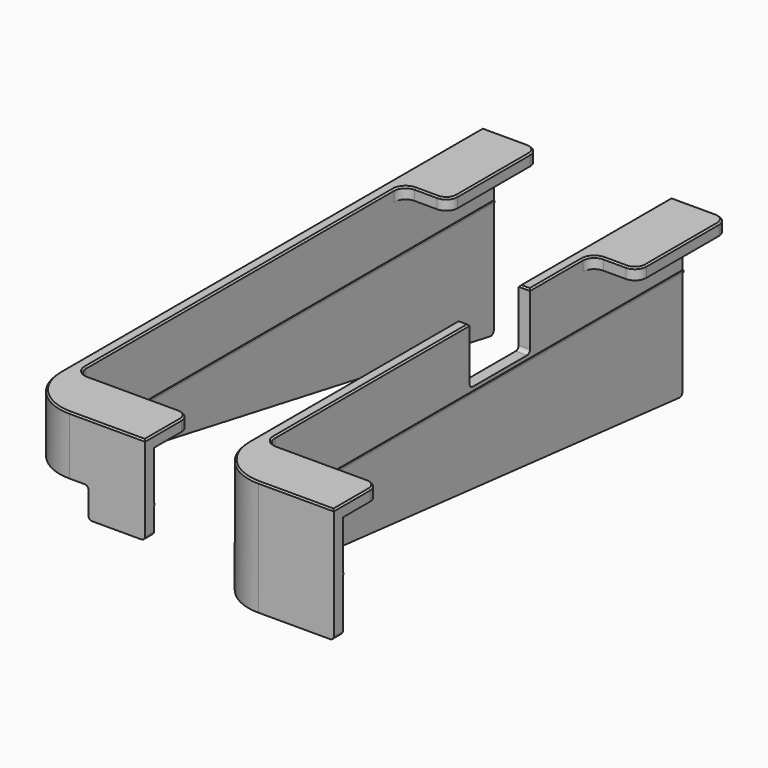
from build123d import *

# Parameters (mm, degrees)
SKETCH_W           = 33
SKETCH_H           = 153
PAD_DEPTH          = 75
SKETCH001_W        = 30
SKETCH001_H        = 150
POCKET_DEPTH       = 72
POCKET001_DEPTH    = 3
FILLET_R           = 10
FILLET001_R        = 13
FILLET002_R        = 3
POCKET002_DEPTH    = 33.001
SKETCH009_W        = 18
SKETCH009_H        = 25
POCKET007_DEPTH    = 5
POCKET008_DEPTH    = 27.001
POCKET008_FACE25_W = 3
POCKET008_FACE25_H = 15
PAD003_DEPTH       = 3
FILLET007_R        = 1
CHAMFER_SIZE       = 0.4
SKETCH010_W        = 128
SKETCH010_H        = 0.5
PAD004_DEPTH       = 0.2
SKETCH011_W        = 15
SKETCH011_H        = 0.5
PAD005_DEPTH       = 0.2
POCKET003_DEPTH    = 33.001
SKETCH005_W        = 13
SKETCH005_H        = 5
POCKET004_DEPTH    = 20
FILLET004_R        = 1
POCKET005_DEPTH    = 0.5
FILLET005_R        = 1
SKETCH006_W        = 140
SKETCH006_H        = 0.5
PAD001_DEPTH       = 0.2
SKETCH007_W        = 20
SKETCH007_H        = 0.5
PAD002_DEPTH       = 0.2
SKETCH008_W        = 20
SKETCH008_H        = 15
POCKET006_DEPTH    = 33.001
FILLET006_R        = 1
CHAMFER001_SIZE    = 0.4


with BuildPart() as base:
    # Sketch → Pad (new body)
    with BuildSketch(Plane.XY):
        with Locations((13.5, 73.5)):
            Rectangle(SKETCH_W, SKETCH_H)
    extrude(amount=PAD_DEPTH)

    # Sketch001 (on Face5 of Pad) → Pocket (cut)
    with BuildSketch(Plane(origin=(0, 0, 0), x_dir=(1, 0, 0), z_dir=(0, 0, -1))):
        with Locations((15, -75)):
            Rectangle(SKETCH001_W, SKETCH001_H)
    extrude(amount=-POCKET_DEPTH, mode=Mode.SUBTRACT)

    # Sketch002 (on Face5 of Pocket) → Pocket001 (cut)
    with BuildSketch(Plane.XY.offset(75)):
        Polygon((12, 150), (12, 120), (0, 120), (0, 12), (30, 12), (30, 150), align=None)
    extrude(amount=-POCKET001_DEPTH, mode=Mode.SUBTRACT)

    # Fillet
    fillet_edges = [base.edges().sort_by_distance(p)[0] for p in [
        (0, 0, 36),
    ]]
    fillet(fillet_edges, radius=FILLET_R)

    # Fillet001
    fillet001_edges = [base.edges().sort_by_distance(p)[0] for p in [
        (-3, -3, 37.5),
    ]]
    fillet(fillet001_edges, radius=FILLET001_R)

    # Fillet002
    fillet002_edges = [base.edges().sort_by_distance(p)[0] for p in [
        (0, 12, 73.5),
        (0, 120, 73.5),
        (30, 12, 73.5),
        (12, 120, 73.5),
        (12, 150, 73.5),
    ]]
    fillet(fillet002_edges, radius=FILLET002_R)


with BuildPart() as left:
    # Body001 base: copy of base
    add(base.part)

    # Sketch003 (on Face7 of Clone) → Pocket002 (cut, through all)
    with BuildSketch(Plane(origin=(-3, 0, 0), x_dir=(0, -1, 0), z_dir=(-1, 0, 0))):
        Polygon((-150, 27.5), (0, 54.5), (3, 54.5), (3, 0), (-150, 0), align=None)
    extrude(amount=-POCKET002_DEPTH, mode=Mode.SUBTRACT)

    # Sketch009 (on Face16 of Pocket002) → Pocket007 (cut)
    with BuildSketch(Plane(origin=(0, 0, 54.5), x_dir=(1, 0, 0), z_dir=(0, 0, -1))):
        with Locations((6, -9.5)):
            Rectangle(SKETCH009_W, SKETCH009_H)
    extrude(amount=-POCKET007_DEPTH, mode=Mode.SUBTRACT)

    # Pocket007 Face13 → Pocket008 (cut, through all)
    with BuildSketch(Plane(origin=(-0.375432, 10.110075, 54.5), x_dir=(0, 1, 0), z_dir=(0, 0, 1))):
        with BuildLine():
            Line((11.889925, 2.624568), (-0.110075, 2.624568))
            ThreePointArc((-0.110075, 2.624568), (-5.633384, 1.392875), (-10.110075, -2.068808))
            Line((-10.110075, -2.068808), (-10.110075, -10.375432))
            ThreePointArc((-10.110075, -10.375432), (-7.181142, -3.304364), (-0.110075, -0.375432))
            Line((-0.110075, -0.375432), (11.889925, -0.375432))
            Line((11.889925, -0.375432), (11.889925, 2.624568))
        make_face()
    extrude(amount=-POCKET008_DEPTH, mode=Mode.SUBTRACT)

    # Pocket008 Face25 → Pad003 (add)
    with BuildSketch(Plane(origin=(22.5, -1.5, 54.5), x_dir=(0, -1, 0), z_dir=(0, 0, -1))):
        Rectangle(POCKET008_FACE25_W, POCKET008_FACE25_H)
    extrude(amount=PAD003_DEPTH)

    # Fillet007
    fillet007_edges = [left.edges().sort_by_distance(p)[0] for p in [
        (30, -1.5, 51.5),
        (15, -1.5, 51.5),
        (-1.5, 22, 50.54),
        (15, -1.5, 59.5),
        (-1.5, 22, 59.5),
        (-1.5, 150, 27.5),
    ]]
    fillet(fillet007_edges, radius=FILLET007_R)

    # Chamfer
    chamfer_edges = [left.edges().sort_by_distance(p)[0] for p in [
        (3, 150, 75),
        (11.12132, 149.12132, 75),
        (-3, 80, 75),
        (12, 135, 75),
        (0.807612, 0.807612, 75),
        (11.12132, 120.87868, 75),
        (20, -3, 75),
        (6, 120, 75),
        (30, 3, 75),
        (0.87868, 119.12132, 75),
        (29.12132, 11.12132, 75),
        (0, 66, 75),
        (15, 12, 75),
        (0.87868, 12.87868, 75),
    ]]
    chamfer(chamfer_edges, length=CHAMFER_SIZE)

    # Sketch010 (on Face6 of Chamfer) → Pad004 (join)
    with BuildSketch(Plane.YZ):
        with Locations((86, 58.75)):
            Rectangle(SKETCH010_W, SKETCH010_H)
    extrude(amount=PAD004_DEPTH)

    # Sketch011 (on Face34 of Pad004) → Pad005 (join)
    with BuildSketch(Plane(origin=(0, 0, 0), x_dir=(-1, 0, 0), z_dir=(0, 1, 0))):
        with Locations((-22.5, 58.75)):
            Rectangle(SKETCH011_W, SKETCH011_H)
    extrude(amount=PAD005_DEPTH)


with BuildPart() as left_1:
    # Body001 placement: moved
    add(left.part.moved(Location((-50, 0, 0))))


with BuildPart() as right:
    # Body002 base: copy of base
    add(base.part)

    # Sketch004 (on Face7 of Clone001) → Pocket003 (cut, through all)
    with BuildSketch(Plane(origin=(-3, 0, 0), x_dir=(0, -1, 0), z_dir=(-1, 0, 0))):
        Polygon((-150, 29.5), (0, 44), (3, 44), (3, 0), (-150, 0), align=None)
    extrude(amount=-POCKET003_DEPTH, mode=Mode.SUBTRACT)

    # Sketch005 (on Face17 of Pocket003) → Pocket004 (cut)
    with BuildSketch(Plane.XZ.offset(3)):
        with Locations((3.5, 41.5)):
            Rectangle(SKETCH005_W, SKETCH005_H)
    extrude(amount=-POCKET004_DEPTH, mode=Mode.SUBTRACT)

    # Fillet004
    fillet004_edges = [right.edges().sort_by_distance(p)[0] for p in [
        (-1.5, 17, 42.356667),
    ]]
    fillet(fillet004_edges, radius=FILLET004_R)

    # Fillet004 Face7 → Pocket005 (cut)
    with BuildSketch(Plane(origin=(9.700427, 2.488487, 44), x_dir=(0, -1, 0), z_dir=(0, 0, -1))):
        with BuildLine():
            ThreePointArc((2.488487, 8.007051), (-1.988204, 11.468734), (-7.511513, 12.700427))
            Line((-7.511513, 12.700427), (-14.511513, 12.700427))
            Line((-14.511513, 12.700427), (-14.511513, 9.700427))
            Line((-14.511513, 9.700427), (-7.511513, 9.700427))
            ThreePointArc((-7.511513, 9.700427), (-0.440445, 6.771495), (2.488487, -0.299573))
            Line((2.488487, -0.299573), (2.488487, -20.299573))
            Line((2.488487, -20.299573), (5.488487, -20.299573))
            Line((5.488487, -20.299573), (5.488487, -0.299573))
            ThreePointArc((5.488487, -0.299573), (4.715506, 4.116308), (2.488487, 8.007051))
        make_face()
    extrude(amount=-POCKET005_DEPTH, mode=Mode.SUBTRACT)

    # Fillet005
    fillet005_edges = [right.edges().sort_by_distance(p)[0] for p in [
        (30, -1.5, 44.5),
        (-1.5, 17, 44.5),
        (-1.5, 150, 29.5),
    ]]
    fillet(fillet005_edges, radius=FILLET005_R)

    # Sketch006 (on Face1 of Fillet005) → Pad001 (join)
    with BuildSketch(Plane.YZ):
        with Locations((80, 58.75)):
            Rectangle(SKETCH006_W, SKETCH006_H)
    extrude(amount=PAD001_DEPTH)

    # Sketch007 (on Face14 of Pad001) → Pad002 (join)
    with BuildSketch(Plane(origin=(0, 0, 0), x_dir=(-1, 0, 0), z_dir=(0, 1, 0))):
        with Locations((-20, 58.75)):
            Rectangle(SKETCH007_W, SKETCH007_H)
    extrude(amount=PAD002_DEPTH)

    # Sketch008 (on Face11 of Pad002) → Pocket006 (cut, through all)
    with BuildSketch(Plane(origin=(-3, 0, 0), x_dir=(0, -1, 0), z_dir=(-1, 0, 0))):
        with Locations((-89.5, 67.5)):
            Rectangle(SKETCH008_W, SKETCH008_H)
    extrude(amount=-POCKET006_DEPTH, mode=Mode.SUBTRACT)

    # Fillet006
    fillet006_edges = [right.edges().sort_by_distance(p)[0] for p in [
        (-1.5, 99.5, 60),
        (-1.5, 79.5, 60),
    ]]
    fillet(fillet006_edges, radius=FILLET006_R)

    # Chamfer001
    chamfer001_edges = [right.edges().sort_by_distance(p)[0] for p in [
        (11.12132, 149.12132, 75),
        (12, 135, 75),
        (11.12132, 120.87868, 75),
        (6, 120, 75),
        (0.87868, 119.12132, 75),
        (0, 108.25, 75),
        (-1.5, 99.5, 75),
        (-3, 124.75, 75),
        (3, 150, 75),
        (-1.5, 79.5, 75),
        (0, 47.25, 75),
        (0.87868, 12.87868, 75),
        (15, 12, 75),
        (29.12132, 11.12132, 75),
        (30, 3, 75),
        (20, -3, 75),
        (0.807612, 0.807612, 75),
        (-3, 44.75, 75),
    ]]
    chamfer(chamfer001_edges, length=CHAMFER001_SIZE)


solid = Compound([left_1.part, right.part])
